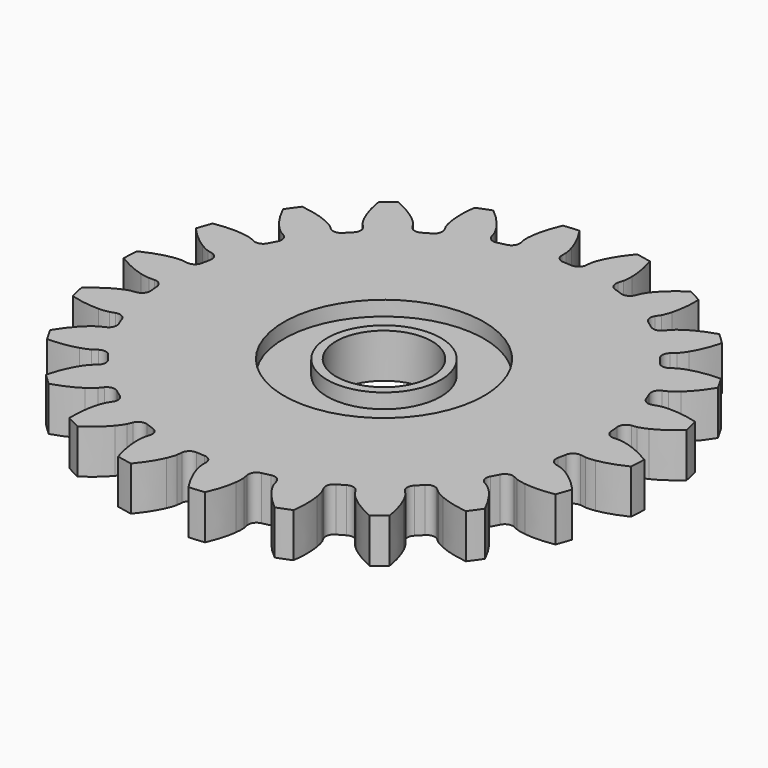
from build123d import *

# Parameters (mm, degrees)
SKETCH004_W            = 2.93428
SKETCH004_H            = 1
SKETCH003_W            = 2.93428
SKETCH003_H            = 1
CYLINDER008_R          = 3.25
CYLINDER008_DEPTH      = 60
PAD008_DEPTH           = 3
CUT010_PLACEMENT_ANGLE = 8


with BuildPart() as bearing_race:
    # Sketch004 → Revolution001 (revolve)
    with BuildSketch(Plane(origin=(0, 0, 11.5), x_dir=(1, 0, 0), z_dir=(0, -1, 0))):
        with Locations((5.324198, -1)):
            Rectangle(SKETCH004_W, SKETCH004_H)
    revolve(axis=Axis((0, 0, 11.5), (0, 0, 1)))


with BuildPart() as revolution:
    # Sketch003 → Revolution (revolve)
    with BuildSketch(Plane(origin=(0, 0, 7.5), x_dir=(1, 0, 0), z_dir=(0, -1, 0))):
        with Locations((5.324198, 1)):
            Rectangle(SKETCH003_W, SKETCH003_H)
    revolve(axis=Axis((0, 0, 7.5), (0, 0, 1)))


with BuildPart() as fusion007:
    # Cylinder008 → Cylinder008 (new body)
    with BuildSketch(Plane.XY):
        Circle(CYLINDER008_R)
    extrude(amount=CYLINDER008_DEPTH)

    # Fusion007: union Bearing race, Revolution
    add(bearing_race.part)
    add(revolution.part)


with BuildPart() as center_transfer_gear:
    # InvoluteGear011 → Pad008 (new body)
    with BuildSketch(Plane(origin=(0, 0, 8), x_dir=(0.981627, -0.190809, 0), z_dir=(0, 0, 1))):
        with BuildLine():
            Line((15.120592, -1.308221), (15.474951, -1.337752))
            add(Edge.make_bspline(
                [(15.474951, -1.337752), (15.548151, -1.339711), (15.768567, -1.336936), (16.136041, -1.258229)],
                knots=[0, 0, 0, 0, 1, 1, 1, 1], degree=3))
            add(Edge.make_bspline(
                [(16.136041, -1.258229), (16.575905, -1.162683), (17.209857, -0.959226), (17.993829, -0.528847)],
                knots=[0, 0, 0, 0, 1, 1, 1, 1], degree=3))
            ThreePointArc((17.993829, -0.528847), (18.001599, 0), (17.993829, 0.528847))
            add(Edge.make_bspline(
                [(17.993829, 0.528847), (17.209857, 0.959226), (16.575905, 1.162683), (16.136041, 1.258229)],
                knots=[0, 0, 0, 0, 1, 1, 1, 1], degree=3))
            add(Edge.make_bspline(
                [(16.136041, 1.258229), (15.768567, 1.336936), (15.548151, 1.339711), (15.474951, 1.337752)],
                knots=[0, 0, 0, 0, 1, 1, 1, 1], degree=3))
            Line((15.474951, 1.337752), (15.120592, 1.308221))
            ThreePointArc((15.120592, 1.308221), (14.718305, 1.431328), (14.513926, 1.79905))
            ThreePointArc((14.513926, 1.79905), (14.476139, 2.081355), (14.432861, 2.36287))
            ThreePointArc((14.432861, 2.36287), (14.525362, 2.773277), (14.87667, 3.004735))
            Line((14.87667, 3.004735), (15.224995, 3.076233))
            add(Edge.make_bspline(
                [(15.224995, 3.076233), (15.295781, 3.094977), (15.506488, 3.159738), (15.836902, 3.338786)],
                knots=[0, 0, 0, 0, 1, 1, 1, 1], degree=3))
            add(Edge.make_bspline(
                [(15.836902, 3.338786), (16.23203, 3.554386), (16.782983, 3.928207), (17.413945, 4.562023)],
                knots=[0, 0, 0, 0, 1, 1, 1, 1], degree=3))
            ThreePointArc((17.413945, 4.562023), (17.272408, 5.071637), (17.115959, 5.576872))
            add(Edge.make_bspline(
                [(17.115959, 5.576872), (16.242492, 5.768948), (15.576899, 5.785558), (15.127934, 5.75331)],
                knots=[0, 0, 0, 0, 1, 1, 1, 1], degree=3))
            add(Edge.make_bspline(
                [(15.127934, 5.75331), (14.753171, 5.7253), (14.540901, 5.665863), (14.471218, 5.643362)],
                knots=[0, 0, 0, 0, 1, 1, 1, 1], degree=3))
            Line((14.471218, 5.643362), (14.139534, 5.515192))
            ThreePointArc((14.139534, 5.515192), (13.718858, 5.519974), (13.419159, 5.815221))
            ThreePointArc((13.419159, 5.815221), (13.303368, 6.075445), (13.182531, 6.333364))
            ThreePointArc((13.182531, 6.333364), (13.15566, 6.753207), (13.427529, 7.074264))
            Line((13.427529, 7.074264), (13.741601, 7.241001))
            add(Edge.make_bspline(
                [(13.741601, 7.241001), (13.804239, 7.278928), (13.988165, 7.400429), (14.254751, 7.665313)],
                knots=[0, 0, 0, 0, 1, 1, 1, 1], degree=3))
            add(Edge.make_bspline(
                [(14.254751, 7.665313), (14.573132, 7.9835), (14.99645, 8.497399), (15.423288, 9.283304)],
                knots=[0, 0, 0, 0, 1, 1, 1, 1], degree=3))
            ThreePointArc((15.423288, 9.283304), (15.143909, 9.732399), (14.851456, 10.173092))
            add(Edge.make_bspline(
                [(14.851456, 10.173092), (13.959257, 10.111304), (13.315945, 9.939722), (12.894252, 9.782292)],
                knots=[0, 0, 0, 0, 1, 1, 1, 1], degree=3))
            add(Edge.make_bspline(
                [(12.894252, 9.782292), (12.54256, 9.649834), (12.355634, 9.533001), (12.295113, 9.491779)],
                knots=[0, 0, 0, 0, 1, 1, 1, 1], degree=3))
            Line((12.295113, 9.491779), (12.012974, 9.275354))
            ThreePointArc((12.012974, 9.275354), (11.607992, 9.161426), (11.237252, 9.360278))
            ThreePointArc((11.237252, 9.360278), (11.052838, 9.577338), (10.864231, 9.790766))
            ThreePointArc((10.864231, 9.790766), (10.720165, 10.186032), (10.890569, 10.570679))
            Line((10.890569, 10.570679), (11.144943, 10.819146))
            add(Edge.make_bspline(
                [(11.144943, 10.819146), (11.194359, 10.873184), (11.336605, 11.041581), (11.517765, 11.370841)],
                knots=[0, 0, 0, 0, 1, 1, 1, 1], degree=3))
            add(Edge.make_bspline(
                [(11.517765, 11.370841), (11.733606, 11.765838), (11.994995, 12.378183), (12.183127, 13.252507)],
                knots=[0, 0, 0, 0, 1, 1, 1, 1], degree=3))
            ThreePointArc((12.183127, 13.252507), (11.78854, 13.604701), (11.383776, 13.945149))
            add(Edge.make_bspline(
                [(11.383776, 13.945149), (10.545125, 13.634502), (9.976212, 13.288629), (9.615954, 13.018771)],
                knots=[0, 0, 0, 0, 1, 1, 1, 1], degree=3))
            add(Edge.make_bspline(
                [(9.615954, 13.018771), (9.315826, 12.792595), (9.169387, 12.627832), (9.122932, 12.571229)],
                knots=[0, 0, 0, 0, 1, 1, 1, 1], degree=3))
            Line((9.122932, 12.571229), (8.913195, 12.284083))
            ThreePointArc((8.913195, 12.284083), (8.556715, 12.060673), (8.144969, 12.147021))
            ThreePointArc((8.144969, 12.147021), (7.906872, 12.303333), (7.665776, 12.454979))
            ThreePointArc((7.665776, 12.454979), (7.416186, 12.793646), (7.47132, 13.21072))
            Line((7.47132, 13.21072), (7.645389, 13.520788))
            add(Edge.make_bspline(
                [(7.645389, 13.520788), (7.677579, 13.586559), (7.76662, 13.78821), (7.847679, 14.155172)],
                knots=[0, 0, 0, 0, 1, 1, 1, 1], degree=3))
            add(Edge.make_bspline(
                [(7.847679, 14.155172), (7.943493, 14.594978), (8.021776, 15.25616), (7.955962, 16.148071)],
                knots=[0, 0, 0, 0, 1, 1, 1, 1], degree=3))
            ThreePointArc((7.955962, 16.148071), (7.478135, 16.374831), (6.993851, 16.587453))
            add(Edge.make_bspline(
                [(6.993851, 16.587453), (6.276691, 16.053114), (5.828266, 15.560969), (5.558629, 15.200546)],
                knots=[0, 0, 0, 0, 1, 1, 1, 1], degree=3))
            add(Edge.make_bspline(
                [(5.558629, 15.200546), (5.334379, 14.898977), (5.240291, 14.699631), (5.211664, 14.632233)],
                knots=[0, 0, 0, 0, 1, 1, 1, 1], degree=3))
            Line((5.211664, 14.632233), (5.091322, 14.297629))
            ThreePointArc((5.091322, 14.297629), (4.812223, 13.982836), (4.392829, 13.949684))
            ThreePointArc((4.392829, 13.949684), (4.120339, 14.032585), (3.846285, 14.110164))
            ThreePointArc((3.846285, 14.110164), (3.511392, 14.364794), (3.446789, 14.780507))
            Line((3.446789, 14.780507), (3.526451, 15.127056))
            add(Edge.make_bspline(
                [(3.526451, 15.127056), (3.538807, 15.199232), (3.567429, 15.4178), (3.54182, 15.792735)],
                knots=[0, 0, 0, 0, 1, 1, 1, 1], degree=3))
            add(Edge.make_bspline(
                [(3.54182, 15.792735), (3.509846, 16.241719), (3.398681, 16.898174), (3.084252, 17.735415)],
                knots=[0, 0, 0, 0, 1, 1, 1, 1], degree=3))
            ThreePointArc((3.084252, 17.735415), (2.561895, 17.818369), (2.037325, 17.88594))
            add(Edge.make_bspline(
                [(2.037325, 17.88594), (1.499756, 17.171198), (1.208149, 16.572653), (1.050976, 16.150864)],
                knots=[0, 0, 0, 0, 1, 1, 1, 1], degree=3))
            add(Edge.make_bspline(
                [(1.050976, 16.150864), (0.920773, 15.798332), (0.886658, 15.580553), (0.878179, 15.50782)],
                knots=[0, 0, 0, 0, 1, 1, 1, 1], degree=3))
            Line((0.878179, 15.50782), (0.85698, 15.152866))
            ThreePointArc((0.85698, 15.152866), (0.677874, 14.772193), (0.284809, 14.622227))
            ThreePointArc((0.284809, 14.622227), (0, 14.625), (-0.284809, 14.622227))
            ThreePointArc((-0.284809, 14.622227), (-0.677874, 14.772193), (-0.85698, 15.152866))
            Line((-0.85698, 15.152866), (-0.878179, 15.50782))
            add(Edge.make_bspline(
                [(-0.878179, 15.50782), (-0.886658, 15.580553), (-0.920773, 15.798332), (-1.050976, 16.150864)],
                knots=[0, 0, 0, 0, 1, 1, 1, 1], degree=3))
            add(Edge.make_bspline(
                [(-1.050976, 16.150864), (-1.208149, 16.572653), (-1.499756, 17.171198), (-2.037325, 17.88594)],
                knots=[0, 0, 0, 0, 1, 1, 1, 1], degree=3))
            ThreePointArc((-2.037325, 17.88594), (-2.561895, 17.818369), (-3.084252, 17.735415))
            add(Edge.make_bspline(
                [(-3.084252, 17.735415), (-3.398681, 16.898174), (-3.509846, 16.241719), (-3.54182, 15.792735)],
                knots=[0, 0, 0, 0, 1, 1, 1, 1], degree=3))
            add(Edge.make_bspline(
                [(-3.54182, 15.792735), (-3.567429, 15.4178), (-3.538807, 15.199232), (-3.526451, 15.127056)],
                knots=[0, 0, 0, 0, 1, 1, 1, 1], degree=3))
            Line((-3.526451, 15.127056), (-3.446789, 14.780507))
            ThreePointArc((-3.446789, 14.780507), (-3.511392, 14.364794), (-3.846285, 14.110164))
            ThreePointArc((-3.846285, 14.110164), (-4.120339, 14.032585), (-4.392829, 13.949684))
            ThreePointArc((-4.392829, 13.949684), (-4.812223, 13.982836), (-5.091322, 14.297629))
            Line((-5.091322, 14.297629), (-5.211664, 14.632233))
            add(Edge.make_bspline(
                [(-5.211664, 14.632233), (-5.240291, 14.699631), (-5.334379, 14.898977), (-5.558629, 15.200546)],
                knots=[0, 0, 0, 0, 1, 1, 1, 1], degree=3))
            add(Edge.make_bspline(
                [(-5.558629, 15.200546), (-5.828266, 15.560969), (-6.276691, 16.053114), (-6.993851, 16.587453)],
                knots=[0, 0, 0, 0, 1, 1, 1, 1], degree=3))
            ThreePointArc((-6.993851, 16.587453), (-7.478135, 16.374831), (-7.955962, 16.148071))
            add(Edge.make_bspline(
                [(-7.955962, 16.148071), (-8.021776, 15.25616), (-7.943493, 14.594978), (-7.847679, 14.155172)],
                knots=[0, 0, 0, 0, 1, 1, 1, 1], degree=3))
            add(Edge.make_bspline(
                [(-7.847679, 14.155172), (-7.76662, 13.78821), (-7.677579, 13.586559), (-7.645389, 13.520788)],
                knots=[0, 0, 0, 0, 1, 1, 1, 1], degree=3))
            Line((-7.645389, 13.520788), (-7.47132, 13.21072))
            ThreePointArc((-7.47132, 13.21072), (-7.416186, 12.793646), (-7.665776, 12.454979))
            ThreePointArc((-7.665776, 12.454979), (-7.906872, 12.303333), (-8.144969, 12.147021))
            ThreePointArc((-8.144969, 12.147021), (-8.556715, 12.060673), (-8.913195, 12.284083))
            Line((-8.913195, 12.284083), (-9.122932, 12.571229))
            add(Edge.make_bspline(
                [(-9.122932, 12.571229), (-9.169387, 12.627832), (-9.315826, 12.792595), (-9.615954, 13.018771)],
                knots=[0, 0, 0, 0, 1, 1, 1, 1], degree=3))
            add(Edge.make_bspline(
                [(-9.615954, 13.018771), (-9.976212, 13.288629), (-10.545125, 13.634502), (-11.383776, 13.945149)],
                knots=[0, 0, 0, 0, 1, 1, 1, 1], degree=3))
            ThreePointArc((-11.383776, 13.945149), (-11.78854, 13.604701), (-12.183127, 13.252507))
            add(Edge.make_bspline(
                [(-12.183127, 13.252507), (-11.994995, 12.378183), (-11.733606, 11.765838), (-11.517765, 11.370841)],
                knots=[0, 0, 0, 0, 1, 1, 1, 1], degree=3))
            add(Edge.make_bspline(
                [(-11.517765, 11.370841), (-11.336605, 11.041581), (-11.194359, 10.873184), (-11.144943, 10.819146)],
                knots=[0, 0, 0, 0, 1, 1, 1, 1], degree=3))
            Line((-11.144943, 10.819146), (-10.890569, 10.570679))
            ThreePointArc((-10.890569, 10.570679), (-10.720165, 10.186032), (-10.864231, 9.790766))
            ThreePointArc((-10.864231, 9.790766), (-11.052838, 9.577338), (-11.237252, 9.360278))
            ThreePointArc((-11.237252, 9.360278), (-11.607992, 9.161426), (-12.012974, 9.275354))
            Line((-12.012974, 9.275354), (-12.295113, 9.491779))
            add(Edge.make_bspline(
                [(-12.295113, 9.491779), (-12.355634, 9.533001), (-12.54256, 9.649834), (-12.894252, 9.782292)],
                knots=[0, 0, 0, 0, 1, 1, 1, 1], degree=3))
            add(Edge.make_bspline(
                [(-12.894252, 9.782292), (-13.315945, 9.939722), (-13.959257, 10.111304), (-14.851456, 10.173092)],
                knots=[0, 0, 0, 0, 1, 1, 1, 1], degree=3))
            ThreePointArc((-14.851456, 10.173092), (-15.143909, 9.732399), (-15.423288, 9.283304))
            add(Edge.make_bspline(
                [(-15.423288, 9.283304), (-14.99645, 8.497399), (-14.573132, 7.9835), (-14.254751, 7.665313)],
                knots=[0, 0, 0, 0, 1, 1, 1, 1], degree=3))
            add(Edge.make_bspline(
                [(-14.254751, 7.665313), (-13.988165, 7.400429), (-13.804239, 7.278928), (-13.741601, 7.241001)],
                knots=[0, 0, 0, 0, 1, 1, 1, 1], degree=3))
            Line((-13.741601, 7.241001), (-13.427529, 7.074264))
            ThreePointArc((-13.427529, 7.074264), (-13.15566, 6.753207), (-13.182531, 6.333364))
            ThreePointArc((-13.182531, 6.333364), (-13.303368, 6.075445), (-13.419159, 5.815221))
            ThreePointArc((-13.419159, 5.815221), (-13.718858, 5.519974), (-14.139534, 5.515192))
            Line((-14.139534, 5.515192), (-14.471218, 5.643362))
            add(Edge.make_bspline(
                [(-14.471218, 5.643362), (-14.540901, 5.665863), (-14.753171, 5.7253), (-15.127934, 5.75331)],
                knots=[0, 0, 0, 0, 1, 1, 1, 1], degree=3))
            add(Edge.make_bspline(
                [(-15.127934, 5.75331), (-15.576899, 5.785558), (-16.242492, 5.768948), (-17.115959, 5.576872)],
                knots=[0, 0, 0, 0, 1, 1, 1, 1], degree=3))
            ThreePointArc((-17.115959, 5.576872), (-17.272408, 5.071637), (-17.413945, 4.562023))
            add(Edge.make_bspline(
                [(-17.413945, 4.562023), (-16.782983, 3.928207), (-16.23203, 3.554386), (-15.836902, 3.338786)],
                knots=[0, 0, 0, 0, 1, 1, 1, 1], degree=3))
            add(Edge.make_bspline(
                [(-15.836902, 3.338786), (-15.506488, 3.159738), (-15.295781, 3.094977), (-15.224995, 3.076233)],
                knots=[0, 0, 0, 0, 1, 1, 1, 1], degree=3))
            Line((-15.224995, 3.076233), (-14.87667, 3.004735))
            ThreePointArc((-14.87667, 3.004735), (-14.525362, 2.773277), (-14.432861, 2.36287))
            ThreePointArc((-14.432861, 2.36287), (-14.476139, 2.081355), (-14.513926, 1.79905))
            ThreePointArc((-14.513926, 1.79905), (-14.718305, 1.431328), (-15.120592, 1.308221))
            Line((-15.120592, 1.308221), (-15.474951, 1.337752))
            add(Edge.make_bspline(
                [(-15.474951, 1.337752), (-15.548151, 1.339711), (-15.768567, 1.336936), (-16.136041, 1.258229)],
                knots=[0, 0, 0, 0, 1, 1, 1, 1], degree=3))
            add(Edge.make_bspline(
                [(-16.136041, 1.258229), (-16.575905, 1.162683), (-17.209857, 0.959226), (-17.993829, 0.528847)],
                knots=[0, 0, 0, 0, 1, 1, 1, 1], degree=3))
            ThreePointArc((-17.993829, 0.528847), (-18.001599, 0), (-17.993829, -0.528847))
            add(Edge.make_bspline(
                [(-17.993829, -0.528847), (-17.209857, -0.959226), (-16.575905, -1.162683), (-16.136041, -1.258229)],
                knots=[0, 0, 0, 0, 1, 1, 1, 1], degree=3))
            add(Edge.make_bspline(
                [(-16.136041, -1.258229), (-15.768567, -1.336936), (-15.548151, -1.339711), (-15.474951, -1.337752)],
                knots=[0, 0, 0, 0, 1, 1, 1, 1], degree=3))
            Line((-15.474951, -1.337752), (-15.120592, -1.308221))
            ThreePointArc((-15.120592, -1.308221), (-14.718305, -1.431328), (-14.513926, -1.79905))
            ThreePointArc((-14.513926, -1.79905), (-14.476139, -2.081355), (-14.432861, -2.36287))
            ThreePointArc((-14.432861, -2.36287), (-14.525362, -2.773277), (-14.87667, -3.004735))
            Line((-14.87667, -3.004735), (-15.224995, -3.076233))
            add(Edge.make_bspline(
                [(-15.224995, -3.076233), (-15.295781, -3.094977), (-15.506488, -3.159738), (-15.836902, -3.338786)],
                knots=[0, 0, 0, 0, 1, 1, 1, 1], degree=3))
            add(Edge.make_bspline(
                [(-15.836902, -3.338786), (-16.23203, -3.554386), (-16.782983, -3.928207), (-17.413945, -4.562023)],
                knots=[0, 0, 0, 0, 1, 1, 1, 1], degree=3))
            ThreePointArc((-17.413945, -4.562023), (-17.272408, -5.071637), (-17.115959, -5.576872))
            add(Edge.make_bspline(
                [(-17.115959, -5.576872), (-16.242492, -5.768948), (-15.576899, -5.785558), (-15.127934, -5.75331)],
                knots=[0, 0, 0, 0, 1, 1, 1, 1], degree=3))
            add(Edge.make_bspline(
                [(-15.127934, -5.75331), (-14.753171, -5.7253), (-14.540901, -5.665863), (-14.471218, -5.643362)],
                knots=[0, 0, 0, 0, 1, 1, 1, 1], degree=3))
            Line((-14.471218, -5.643362), (-14.139534, -5.515192))
            ThreePointArc((-14.139534, -5.515192), (-13.718858, -5.519974), (-13.419159, -5.815221))
            ThreePointArc((-13.419159, -5.815221), (-13.303368, -6.075445), (-13.182531, -6.333364))
            ThreePointArc((-13.182531, -6.333364), (-13.15566, -6.753207), (-13.427529, -7.074264))
            Line((-13.427529, -7.074264), (-13.741601, -7.241001))
            add(Edge.make_bspline(
                [(-13.741601, -7.241001), (-13.804239, -7.278928), (-13.988165, -7.400429), (-14.254751, -7.665313)],
                knots=[0, 0, 0, 0, 1, 1, 1, 1], degree=3))
            add(Edge.make_bspline(
                [(-14.254751, -7.665313), (-14.573132, -7.9835), (-14.99645, -8.497399), (-15.423288, -9.283304)],
                knots=[0, 0, 0, 0, 1, 1, 1, 1], degree=3))
            ThreePointArc((-15.423288, -9.283304), (-15.143909, -9.732399), (-14.851456, -10.173092))
            add(Edge.make_bspline(
                [(-14.851456, -10.173092), (-13.959257, -10.111304), (-13.315945, -9.939722), (-12.894252, -9.782292)],
                knots=[0, 0, 0, 0, 1, 1, 1, 1], degree=3))
            add(Edge.make_bspline(
                [(-12.894252, -9.782292), (-12.54256, -9.649834), (-12.355634, -9.533001), (-12.295113, -9.491779)],
                knots=[0, 0, 0, 0, 1, 1, 1, 1], degree=3))
            Line((-12.295113, -9.491779), (-12.012974, -9.275354))
            ThreePointArc((-12.012974, -9.275354), (-11.607992, -9.161426), (-11.237252, -9.360278))
            ThreePointArc((-11.237252, -9.360278), (-11.052838, -9.577338), (-10.864231, -9.790766))
            ThreePointArc((-10.864231, -9.790766), (-10.720165, -10.186032), (-10.890569, -10.570679))
            Line((-10.890569, -10.570679), (-11.144943, -10.819146))
            add(Edge.make_bspline(
                [(-11.144943, -10.819146), (-11.194359, -10.873184), (-11.336605, -11.041581), (-11.517765, -11.370841)],
                knots=[0, 0, 0, 0, 1, 1, 1, 1], degree=3))
            add(Edge.make_bspline(
                [(-11.517765, -11.370841), (-11.733606, -11.765838), (-11.994995, -12.378183), (-12.183127, -13.252507)],
                knots=[0, 0, 0, 0, 1, 1, 1, 1], degree=3))
            ThreePointArc((-12.183127, -13.252507), (-11.78854, -13.604701), (-11.383776, -13.945149))
            add(Edge.make_bspline(
                [(-11.383776, -13.945149), (-10.545125, -13.634502), (-9.976212, -13.288629), (-9.615954, -13.018771)],
                knots=[0, 0, 0, 0, 1, 1, 1, 1], degree=3))
            add(Edge.make_bspline(
                [(-9.615954, -13.018771), (-9.315826, -12.792595), (-9.169387, -12.627832), (-9.122932, -12.571229)],
                knots=[0, 0, 0, 0, 1, 1, 1, 1], degree=3))
            Line((-9.122932, -12.571229), (-8.913195, -12.284083))
            ThreePointArc((-8.913195, -12.284083), (-8.556715, -12.060673), (-8.144969, -12.147021))
            ThreePointArc((-8.144969, -12.147021), (-7.906872, -12.303333), (-7.665776, -12.454979))
            ThreePointArc((-7.665776, -12.454979), (-7.416186, -12.793646), (-7.47132, -13.21072))
            Line((-7.47132, -13.21072), (-7.645389, -13.520788))
            add(Edge.make_bspline(
                [(-7.645389, -13.520788), (-7.677579, -13.586559), (-7.76662, -13.78821), (-7.847679, -14.155172)],
                knots=[0, 0, 0, 0, 1, 1, 1, 1], degree=3))
            add(Edge.make_bspline(
                [(-7.847679, -14.155172), (-7.943493, -14.594978), (-8.021776, -15.25616), (-7.955962, -16.148071)],
                knots=[0, 0, 0, 0, 1, 1, 1, 1], degree=3))
            ThreePointArc((-7.955962, -16.148071), (-7.478135, -16.374831), (-6.993851, -16.587453))
            add(Edge.make_bspline(
                [(-6.993851, -16.587453), (-6.276691, -16.053114), (-5.828266, -15.560969), (-5.558629, -15.200546)],
                knots=[0, 0, 0, 0, 1, 1, 1, 1], degree=3))
            add(Edge.make_bspline(
                [(-5.558629, -15.200546), (-5.334379, -14.898977), (-5.240291, -14.699631), (-5.211664, -14.632233)],
                knots=[0, 0, 0, 0, 1, 1, 1, 1], degree=3))
            Line((-5.211664, -14.632233), (-5.091322, -14.297629))
            ThreePointArc((-5.091322, -14.297629), (-4.812223, -13.982836), (-4.392829, -13.949684))
            ThreePointArc((-4.392829, -13.949684), (-4.120339, -14.032585), (-3.846285, -14.110164))
            ThreePointArc((-3.846285, -14.110164), (-3.511392, -14.364794), (-3.446789, -14.780507))
            Line((-3.446789, -14.780507), (-3.526451, -15.127056))
            add(Edge.make_bspline(
                [(-3.526451, -15.127056), (-3.538807, -15.199232), (-3.567429, -15.4178), (-3.54182, -15.792735)],
                knots=[0, 0, 0, 0, 1, 1, 1, 1], degree=3))
            add(Edge.make_bspline(
                [(-3.54182, -15.792735), (-3.509846, -16.241719), (-3.398681, -16.898174), (-3.084252, -17.735415)],
                knots=[0, 0, 0, 0, 1, 1, 1, 1], degree=3))
            ThreePointArc((-3.084252, -17.735415), (-2.561895, -17.818369), (-2.037325, -17.88594))
            add(Edge.make_bspline(
                [(-2.037325, -17.88594), (-1.499756, -17.171198), (-1.208149, -16.572653), (-1.050976, -16.150864)],
                knots=[0, 0, 0, 0, 1, 1, 1, 1], degree=3))
            add(Edge.make_bspline(
                [(-1.050976, -16.150864), (-0.920773, -15.798332), (-0.886658, -15.580553), (-0.878179, -15.50782)],
                knots=[0, 0, 0, 0, 1, 1, 1, 1], degree=3))
            Line((-0.878179, -15.50782), (-0.85698, -15.152866))
            ThreePointArc((-0.85698, -15.152866), (-0.677874, -14.772193), (-0.284809, -14.622227))
            ThreePointArc((-0.284809, -14.622227), (0, -14.625), (0.284809, -14.622227))
            ThreePointArc((0.284809, -14.622227), (0.677874, -14.772193), (0.85698, -15.152866))
            Line((0.85698, -15.152866), (0.878179, -15.50782))
            add(Edge.make_bspline(
                [(0.878179, -15.50782), (0.886658, -15.580553), (0.920773, -15.798332), (1.050976, -16.150864)],
                knots=[0, 0, 0, 0, 1, 1, 1, 1], degree=3))
            add(Edge.make_bspline(
                [(1.050976, -16.150864), (1.208149, -16.572653), (1.499756, -17.171198), (2.037325, -17.88594)],
                knots=[0, 0, 0, 0, 1, 1, 1, 1], degree=3))
            ThreePointArc((2.037325, -17.88594), (2.561895, -17.818369), (3.084252, -17.735415))
            add(Edge.make_bspline(
                [(3.084252, -17.735415), (3.398681, -16.898174), (3.509846, -16.241719), (3.54182, -15.792735)],
                knots=[0, 0, 0, 0, 1, 1, 1, 1], degree=3))
            add(Edge.make_bspline(
                [(3.54182, -15.792735), (3.567429, -15.4178), (3.538807, -15.199232), (3.526451, -15.127056)],
                knots=[0, 0, 0, 0, 1, 1, 1, 1], degree=3))
            Line((3.526451, -15.127056), (3.446789, -14.780507))
            ThreePointArc((3.446789, -14.780507), (3.511392, -14.364794), (3.846285, -14.110164))
            ThreePointArc((3.846285, -14.110164), (4.120339, -14.032585), (4.392829, -13.949684))
            ThreePointArc((4.392829, -13.949684), (4.812223, -13.982836), (5.091322, -14.297629))
            Line((5.091322, -14.297629), (5.211664, -14.632233))
            add(Edge.make_bspline(
                [(5.211664, -14.632233), (5.240291, -14.699631), (5.334379, -14.898977), (5.558629, -15.200546)],
                knots=[0, 0, 0, 0, 1, 1, 1, 1], degree=3))
            add(Edge.make_bspline(
                [(5.558629, -15.200546), (5.828266, -15.560969), (6.276691, -16.053114), (6.993851, -16.587453)],
                knots=[0, 0, 0, 0, 1, 1, 1, 1], degree=3))
            ThreePointArc((6.993851, -16.587453), (7.478135, -16.374831), (7.955962, -16.148071))
            add(Edge.make_bspline(
                [(7.955962, -16.148071), (8.021776, -15.25616), (7.943493, -14.594978), (7.847679, -14.155172)],
                knots=[0, 0, 0, 0, 1, 1, 1, 1], degree=3))
            add(Edge.make_bspline(
                [(7.847679, -14.155172), (7.76662, -13.78821), (7.677579, -13.586559), (7.645389, -13.520788)],
                knots=[0, 0, 0, 0, 1, 1, 1, 1], degree=3))
            Line((7.645389, -13.520788), (7.47132, -13.21072))
            ThreePointArc((7.47132, -13.21072), (7.416186, -12.793646), (7.665776, -12.454979))
            ThreePointArc((7.665776, -12.454979), (7.906872, -12.303333), (8.144969, -12.147021))
            ThreePointArc((8.144969, -12.147021), (8.556715, -12.060673), (8.913195, -12.284083))
            Line((8.913195, -12.284083), (9.122932, -12.571229))
            add(Edge.make_bspline(
                [(9.122932, -12.571229), (9.169387, -12.627832), (9.315826, -12.792595), (9.615954, -13.018771)],
                knots=[0, 0, 0, 0, 1, 1, 1, 1], degree=3))
            add(Edge.make_bspline(
                [(9.615954, -13.018771), (9.976212, -13.288629), (10.545125, -13.634502), (11.383776, -13.945149)],
                knots=[0, 0, 0, 0, 1, 1, 1, 1], degree=3))
            ThreePointArc((11.383776, -13.945149), (11.78854, -13.604701), (12.183127, -13.252507))
            add(Edge.make_bspline(
                [(12.183127, -13.252507), (11.994995, -12.378183), (11.733606, -11.765838), (11.517765, -11.370841)],
                knots=[0, 0, 0, 0, 1, 1, 1, 1], degree=3))
            add(Edge.make_bspline(
                [(11.517765, -11.370841), (11.336605, -11.041581), (11.194359, -10.873184), (11.144943, -10.819146)],
                knots=[0, 0, 0, 0, 1, 1, 1, 1], degree=3))
            Line((11.144943, -10.819146), (10.890569, -10.570679))
            ThreePointArc((10.890569, -10.570679), (10.720165, -10.186032), (10.864231, -9.790766))
            ThreePointArc((10.864231, -9.790766), (11.052838, -9.577338), (11.237252, -9.360278))
            ThreePointArc((11.237252, -9.360278), (11.607992, -9.161426), (12.012974, -9.275354))
            Line((12.012974, -9.275354), (12.295113, -9.491779))
            add(Edge.make_bspline(
                [(12.295113, -9.491779), (12.355634, -9.533001), (12.54256, -9.649834), (12.894252, -9.782292)],
                knots=[0, 0, 0, 0, 1, 1, 1, 1], degree=3))
            add(Edge.make_bspline(
                [(12.894252, -9.782292), (13.315945, -9.939722), (13.959257, -10.111304), (14.851456, -10.173092)],
                knots=[0, 0, 0, 0, 1, 1, 1, 1], degree=3))
            ThreePointArc((14.851456, -10.173092), (15.143909, -9.732399), (15.423288, -9.283304))
            add(Edge.make_bspline(
                [(15.423288, -9.283304), (14.99645, -8.497399), (14.573132, -7.9835), (14.254751, -7.665313)],
                knots=[0, 0, 0, 0, 1, 1, 1, 1], degree=3))
            add(Edge.make_bspline(
                [(14.254751, -7.665313), (13.988165, -7.400429), (13.804239, -7.278928), (13.741601, -7.241001)],
                knots=[0, 0, 0, 0, 1, 1, 1, 1], degree=3))
            Line((13.741601, -7.241001), (13.427529, -7.074264))
            ThreePointArc((13.427529, -7.074264), (13.15566, -6.753207), (13.182531, -6.333364))
            ThreePointArc((13.182531, -6.333364), (13.303368, -6.075445), (13.419159, -5.815221))
            ThreePointArc((13.419159, -5.815221), (13.718858, -5.519974), (14.139534, -5.515192))
            Line((14.139534, -5.515192), (14.471218, -5.643362))
            add(Edge.make_bspline(
                [(14.471218, -5.643362), (14.540901, -5.665863), (14.753171, -5.7253), (15.127934, -5.75331)],
                knots=[0, 0, 0, 0, 1, 1, 1, 1], degree=3))
            add(Edge.make_bspline(
                [(15.127934, -5.75331), (15.576899, -5.785558), (16.242492, -5.768948), (17.115959, -5.576872)],
                knots=[0, 0, 0, 0, 1, 1, 1, 1], degree=3))
            ThreePointArc((17.115959, -5.576872), (17.272408, -5.071637), (17.413945, -4.562023))
            add(Edge.make_bspline(
                [(17.413945, -4.562023), (16.782983, -3.928207), (16.23203, -3.554386), (15.836902, -3.338786)],
                knots=[0, 0, 0, 0, 1, 1, 1, 1], degree=3))
            add(Edge.make_bspline(
                [(15.836902, -3.338786), (15.506488, -3.159738), (15.295781, -3.094977), (15.224995, -3.076233)],
                knots=[0, 0, 0, 0, 1, 1, 1, 1], degree=3))
            Line((15.224995, -3.076233), (14.87667, -3.004735))
            ThreePointArc((14.87667, -3.004735), (14.525362, -2.773277), (14.432861, -2.36287))
            ThreePointArc((14.432861, -2.36287), (14.476139, -2.081355), (14.513926, -1.79905))
            ThreePointArc((14.513926, -1.79905), (14.718305, -1.431328), (15.120592, -1.308221))
        make_face()
    extrude(amount=PAD008_DEPTH)

    # Cut010: cut Fusion007
    add(fusion007.part, mode=Mode.SUBTRACT)


with BuildPart() as center_transfer_gear_1:
    # Cut010 placement: moved
    add(center_transfer_gear.part.rotate(Axis((0, 0, 0), (0, 0, 1)), CUT010_PLACEMENT_ANGLE))


solid = center_transfer_gear_1.part
